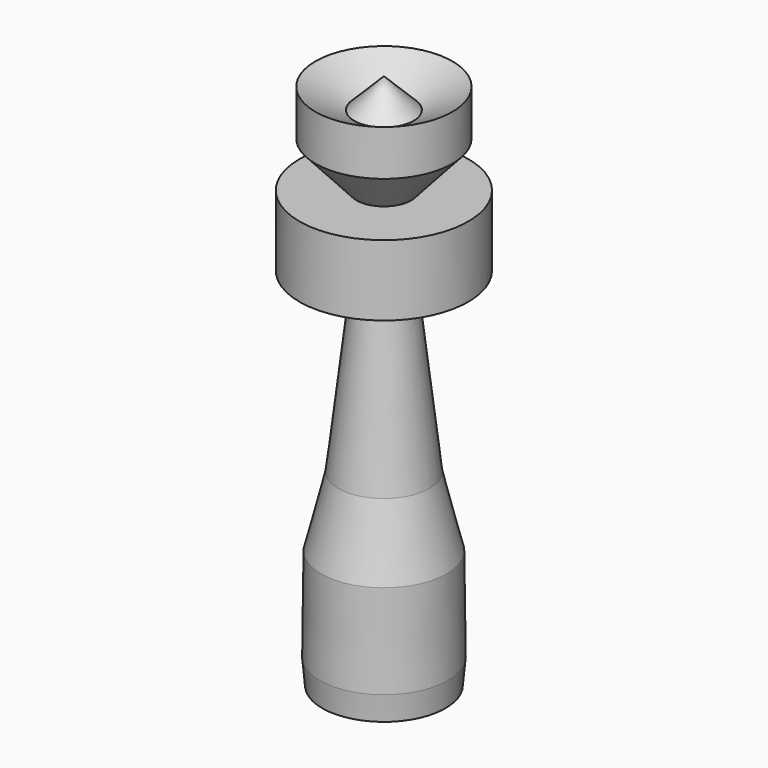
from build123d import *


with BuildPart() as f1:
    # F0 (on Front) → F1 (revolve)
    with BuildSketch(Plane.XZ):
        Polygon((0, -23.532353), (0, -20.394707), (-7.986738, -20.394707), (-7.701498, -23.532353), align=None)
        Polygon((-7.986738, -20.394707), (0, -20.394707), (0, 30.948613), (0, 43.499194), (-3.708129, 39.79107), (-8.55722, 42.358238), (-8.55722, 36.653422), (-3.422888, 30.948613), (-10.553902, 30.948613), (-10.553902, 22.106148), (-3.137647, 22.106148), (-5.704813, 0), (-7.844118, -8.69984), align=None)
    revolve(axis=Axis((0, 0, 9.98342), (0, 0, -1)))


solid = f1.part
